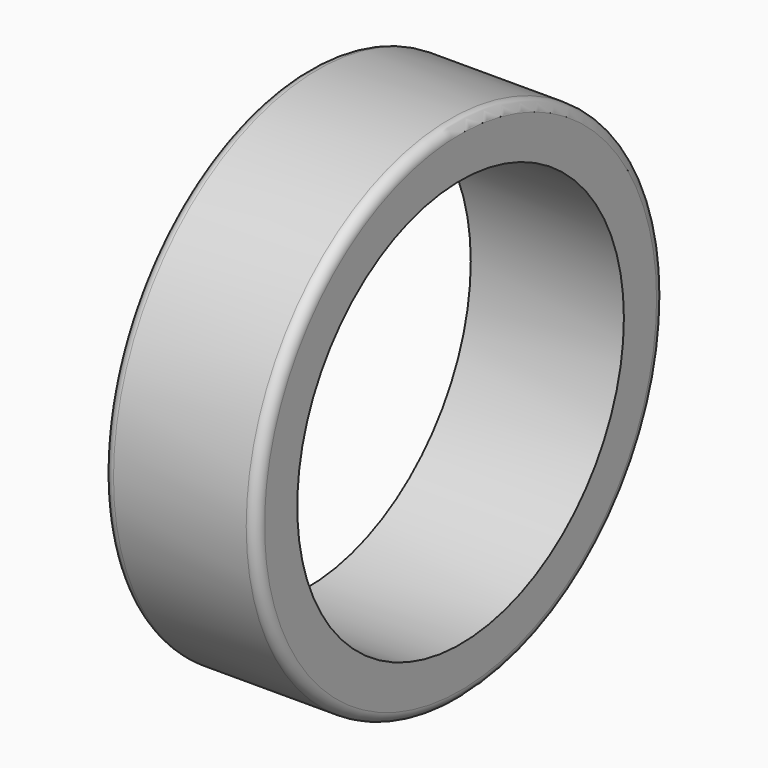
from build123d import *

# Parameters (mm, degrees)
F0_R     = 50
F0_R_2   = 40
F1_DEPTH = 28
F2_DEPTH = 30
F3_R     = 2
F4_R     = 2


with BuildPart() as f1:
    # F0 (on Right) → F1 (new body)
    with BuildSketch(Plane.YZ):
        Circle(F0_R)
        Circle(F0_R_2, mode=Mode.SUBTRACT)
    extrude(amount=F1_DEPTH)

    # F0 (on Right) → F2 (join)
    with BuildSketch(Plane.YZ):
        Circle(F0_R)
        Circle(F0_R_2, mode=Mode.SUBTRACT)
    extrude(amount=F2_DEPTH)

    # F3
    f3_edges = [f1.edges().sort_by_distance(p)[0] for p in [
        (30, -50, 0),
    ]]
    fillet(f3_edges, radius=F3_R)

    # F4
    f4_edges = [f1.edges().sort_by_distance(p)[0] for p in [
        (0, -50, 0),
    ]]
    fillet(f4_edges, radius=F4_R)


solid = f1.part
